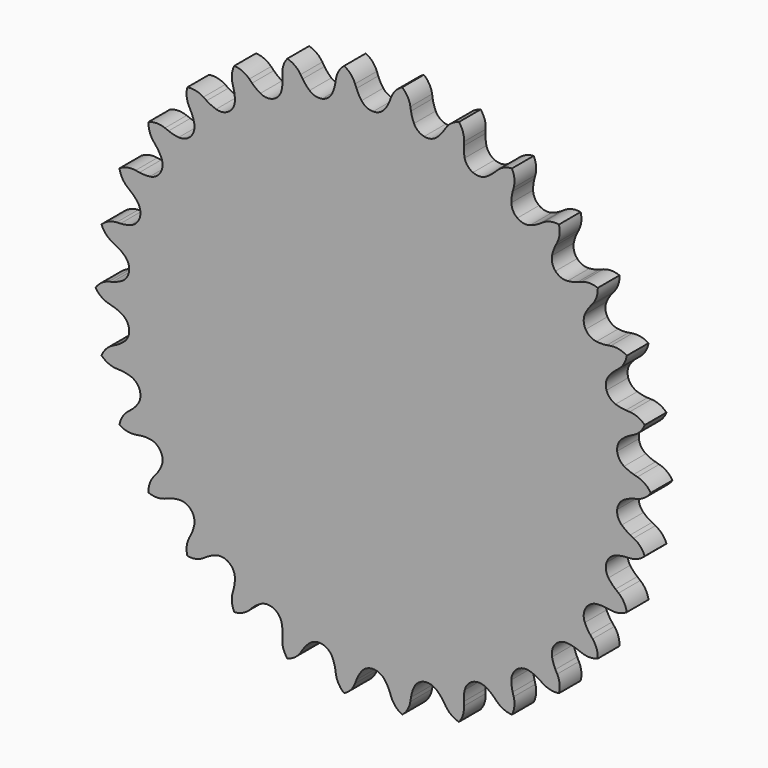
from build123d import *

# Parameters (mm, degrees)
F1_DEPTH = 3.175


with BuildPart() as f1:
    # F0 (on Front) → F1 (new body)
    with BuildSketch(Plane.XZ):
        with BuildLine():
            ThreePointArc((0, 28.67787), (-0.757191, 28.856196), (-1.35522, 29.35369))
            ThreePointArc((-1.35522, 29.35369), (-1.686696, 29.864781), (-1.943334, 30.417255))
            Line((-1.943334, 30.417255), (-2.105828, 30.842983))
            ThreePointArc((-2.105828, 30.842983), (-2.615746, 31.67675), (-3.3918, 32.270823))
            ThreePointArc((-3.3918, 32.270823), (-4.027381, 31.528381), (-4.352806, 30.606816))
            Line((-4.352806, 30.606816), (-4.423235, 30.156607))
            ThreePointArc((-4.423235, 30.156607), (-4.559399, 29.562848), (-4.77737, 28.994008))
            ThreePointArc((-4.77737, 28.994008), (-5.258896, 28.383048), (-5.962464, 28.05119))
            ThreePointArc((-5.962464, 28.05119), (-6.740185, 28.06819), (-7.428581, 28.430475))
            ThreePointArc((-7.428581, 28.430475), (-7.859075, 28.86148), (-8.224971, 29.348523))
            Line((-8.224971, 29.348523), (-8.472427, 29.731164))
            ThreePointArc((-8.472427, 29.731164), (-9.144552, 30.440693), (-10.027163, 30.860434))
            ThreePointArc((-10.027163, 30.860434), (-10.494492, 30.002071), (-10.621202, 29.032984))
            Line((-10.621202, 29.032984), (-10.596488, 28.57797))
            ThreePointArc((-10.596488, 28.57797), (-10.606227, 27.968876), (-10.701166, 27.367148))
            ThreePointArc((-10.701166, 27.367148), (-11.045144, 26.669424), (-11.664341, 26.198538))
            ThreePointArc((-11.664341, 26.198538), (-12.428601, 26.053469), (-13.177277, 26.264712))
            ThreePointArc((-13.177277, 26.264712), (-13.687975, 26.596794), (-14.147136, 26.99712))
            Line((-14.147136, 26.99712), (-14.468741, 27.31995))
            ThreePointArc((-14.468741, 27.31995), (-15.273698, 27.874231), (-16.22429, 28.101295))
            ThreePointArc((-16.22429, 28.101295), (-16.502943, 27.164526), (-16.4254, 26.190272))
            Line((-16.4254, 26.190272), (-16.306623, 25.750339))
            ThreePointArc((-16.306623, 25.750339), (-16.189512, 25.152531), (-16.15727, 24.544213))
            ThreePointArc((-16.15727, 24.544213), (-16.348666, 23.790219), (-16.856429, 23.200884))
            ThreePointArc((-16.856429, 23.200884), (-17.573827, 22.900087), (-18.350062, 22.951056))
            ThreePointArc((-18.350062, 22.951056), (-18.918644, 23.1697), (-19.451004, 23.465813))
            Line((-19.451004, 23.465813), (-19.832701, 23.714723))
            ThreePointArc((-19.832701, 23.714723), (-20.735309, 24.089532), (-21.712338, 24.113994))
            ThreePointArc((-21.712338, 24.113994), (-21.790137, 23.139761), (-21.511729, 22.202919))
            Line((-21.511729, 22.202919), (-21.304081, 21.797295))
            ThreePointArc((-21.304081, 21.797295), (-21.065237, 21.236899), (-20.907223, 20.648577))
            ThreePointArc((-20.907223, 20.648577), (-20.937673, 19.871267), (-21.311811, 19.189241))
            ThreePointArc((-21.311811, 19.189241), (-21.950993, 18.745861), (-22.720862, 18.634327))
            ThreePointArc((-22.720862, 18.634327), (-23.322478, 18.729979), (-23.90477, 18.908937))
            Line((-23.90477, 18.908937), (-24.329877, 19.073049))
            ThreePointArc((-24.329877, 19.073049), (-25.290688, 19.252005), (-26.251453, 19.072797))
            ThreePointArc((-26.251453, 19.072797), (-26.124997, 18.103678), (-25.657893, 17.245192))
            Line((-25.657893, 17.245192), (-25.370448, 16.891604))
            ThreePointArc((-25.370448, 16.891604), (-25.020311, 16.393112), (-24.743431, 15.8505))
            ThreePointArc((-24.743431, 15.8505), (-24.611603, 15.083845), (-24.835764, 14.338935))
            ThreePointArc((-24.835764, 14.338935), (-25.368795, 13.772351), (-26.098651, 13.50319))
            ThreePointArc((-26.098651, 13.50319), (-26.707007, 13.471669), (-27.313783, 13.525651))
            Line((-27.313783, 13.525651), (-27.763721, 13.597791))
            ThreePointArc((-27.763721, 13.597791), (-28.740743, 13.573072), (-29.643253, 13.198027))
            ThreePointArc((-29.643253, 13.198027), (-29.318069, 12.276376), (-28.682683, 11.533767))
            Line((-28.682683, 11.533767), (-28.328005, 11.247669))
            ThreePointArc((-28.328005, 11.247669), (-27.881877, 10.832868), (-27.498232, 10.35968))
            ThreePointArc((-27.498232, 10.35968), (-27.209888, 9.637187), (-27.274275, 8.861949))
            ThreePointArc((-27.274275, 8.861949), (-27.677858, 8.196923), (-28.335804, 7.781898))
            ThreePointArc((-28.335804, 7.781898), (-28.924312, 7.624581), (-29.529052, 7.551228))
            Line((-29.529052, 7.551228), (-29.984157, 7.528245))
            ThreePointArc((-29.984157, 7.528245), (-30.934689, 7.300932), (-31.739501, 6.746439))
            ThreePointArc((-31.739501, 6.746439), (-31.229801, 5.912539), (-30.453903, 5.318262))
            Line((-30.453903, 5.318262), (-30.047492, 5.112157))
            ThreePointArc((-30.047492, 5.112157), (-29.524871, 4.799176), (-29.051228, 4.416092))
            ThreePointArc((-29.051228, 4.416092), (-28.618971, 3.769337), (-28.52077, 2.997654))
            ThreePointArc((-28.52077, 2.997654), (-28.777267, 2.263251), (-29.334547, 1.7205))
            ThreePointArc((-29.334547, 1.7205), (-29.877486, 1.444263), (-30.45376, 1.24678))
            Line((-30.45376, 1.24678), (-30.894141, 1.129678))
            ThreePointArc((-30.894141, 1.129678), (-31.776641, 0.709705), (-32.44858, 0))
            ThreePointArc((-32.44858, 0), (-31.776641, -0.709705), (-30.894141, -1.129678))
            Line((-30.894141, -1.129678), (-30.45376, -1.24678))
            ThreePointArc((-30.45376, -1.24678), (-29.877486, -1.444263), (-29.334547, -1.7205))
            ThreePointArc((-29.334547, -1.7205), (-28.777267, -2.263251), (-28.52077, -2.997654))
            ThreePointArc((-28.52077, -2.997654), (-28.618971, -3.769337), (-29.051228, -4.416092))
            ThreePointArc((-29.051228, -4.416092), (-29.524871, -4.799176), (-30.047492, -5.112157))
            Line((-30.047492, -5.112157), (-30.453903, -5.318262))
            ThreePointArc((-30.453903, -5.318262), (-31.229801, -5.912539), (-31.739501, -6.746439))
            ThreePointArc((-31.739501, -6.746439), (-30.934689, -7.300932), (-29.984157, -7.528245))
            Line((-29.984157, -7.528245), (-29.529052, -7.551228))
            ThreePointArc((-29.529052, -7.551228), (-28.924312, -7.624581), (-28.335804, -7.781898))
            ThreePointArc((-28.335804, -7.781898), (-27.677858, -8.196923), (-27.274275, -8.861949))
            ThreePointArc((-27.274275, -8.861949), (-27.209888, -9.637187), (-27.498232, -10.35968))
            ThreePointArc((-27.498232, -10.35968), (-27.881877, -10.832868), (-28.328005, -11.247669))
            Line((-28.328005, -11.247669), (-28.682683, -11.533767))
            ThreePointArc((-28.682683, -11.533767), (-29.318069, -12.276376), (-29.643253, -13.198027))
            ThreePointArc((-29.643253, -13.198027), (-28.740743, -13.573072), (-27.763721, -13.597791))
            Line((-27.763721, -13.597791), (-27.313783, -13.525651))
            ThreePointArc((-27.313783, -13.525651), (-26.707007, -13.471669), (-26.098651, -13.50319))
            ThreePointArc((-26.098651, -13.50319), (-25.368795, -13.772351), (-24.835764, -14.338935))
            ThreePointArc((-24.835764, -14.338935), (-24.611603, -15.083845), (-24.743431, -15.8505))
            ThreePointArc((-24.743431, -15.8505), (-25.020311, -16.393112), (-25.370448, -16.891604))
            Line((-25.370448, -16.891604), (-25.657893, -17.245192))
            ThreePointArc((-25.657893, -17.245192), (-26.124997, -18.103678), (-26.251453, -19.072797))
            ThreePointArc((-26.251453, -19.072797), (-25.290688, -19.252005), (-24.329877, -19.073049))
            Line((-24.329877, -19.073049), (-23.90477, -18.908937))
            ThreePointArc((-23.90477, -18.908937), (-23.322478, -18.729979), (-22.720862, -18.634327))
            ThreePointArc((-22.720862, -18.634327), (-21.950993, -18.745861), (-21.311811, -19.189241))
            ThreePointArc((-21.311811, -19.189241), (-20.937673, -19.871267), (-20.907223, -20.648577))
            ThreePointArc((-20.907223, -20.648577), (-21.065237, -21.236899), (-21.304081, -21.797295))
            Line((-21.304081, -21.797295), (-21.511729, -22.202919))
            ThreePointArc((-21.511729, -22.202919), (-21.790137, -23.139761), (-21.712338, -24.113994))
            ThreePointArc((-21.712338, -24.113994), (-20.735309, -24.089532), (-19.832701, -23.714723))
            Line((-19.832701, -23.714723), (-19.451004, -23.465813))
            ThreePointArc((-19.451004, -23.465813), (-18.918644, -23.1697), (-18.350062, -22.951056))
            ThreePointArc((-18.350062, -22.951056), (-17.573827, -22.900087), (-16.856429, -23.200884))
            ThreePointArc((-16.856429, -23.200884), (-16.348666, -23.790219), (-16.15727, -24.544213))
            ThreePointArc((-16.15727, -24.544213), (-16.189512, -25.152531), (-16.306623, -25.750339))
            Line((-16.306623, -25.750339), (-16.4254, -26.190272))
            ThreePointArc((-16.4254, -26.190272), (-16.502943, -27.164526), (-16.22429, -28.101295))
            ThreePointArc((-16.22429, -28.101295), (-15.273698, -27.874231), (-14.468741, -27.31995))
            Line((-14.468741, -27.31995), (-14.147136, -26.99712))
            ThreePointArc((-14.147136, -26.99712), (-13.687975, -26.596794), (-13.177277, -26.264712))
            ThreePointArc((-13.177277, -26.264712), (-12.428601, -26.053469), (-11.664341, -26.198538))
            ThreePointArc((-11.664341, -26.198538), (-11.045144, -26.669424), (-10.701166, -27.367148))
            ThreePointArc((-10.701166, -27.367148), (-10.606227, -27.968876), (-10.596488, -28.57797))
            Line((-10.596488, -28.57797), (-10.621202, -29.032984))
            ThreePointArc((-10.621202, -29.032984), (-10.494492, -30.002071), (-10.027163, -30.860434))
            ThreePointArc((-10.027163, -30.860434), (-9.144552, -30.440693), (-8.472427, -29.731164))
            Line((-8.472427, -29.731164), (-8.224971, -29.348523))
            ThreePointArc((-8.224971, -29.348523), (-7.859075, -28.86148), (-7.428581, -28.430475))
            ThreePointArc((-7.428581, -28.430475), (-6.740185, -28.06819), (-5.962464, -28.05119))
            ThreePointArc((-5.962464, -28.05119), (-5.258896, -28.383048), (-4.77737, -28.994008))
            ThreePointArc((-4.77737, -28.994008), (-4.559399, -29.562848), (-4.423235, -30.156607))
            Line((-4.423235, -30.156607), (-4.352806, -30.606816))
            ThreePointArc((-4.352806, -30.606816), (-4.027381, -31.528381), (-3.3918, -32.270823))
            ThreePointArc((-3.3918, -32.270823), (-2.615746, -31.67675), (-2.105828, -30.842983))
            Line((-2.105828, -30.842983), (-1.943334, -30.417255))
            ThreePointArc((-1.943334, -30.417255), (-1.686696, -29.864781), (-1.35522, -29.35369))
            ThreePointArc((-1.35522, -29.35369), (-0.757191, -28.856196), (0, -28.67787))
            ThreePointArc((0, -28.67787), (0.757191, -28.856196), (1.35522, -29.35369))
            ThreePointArc((1.35522, -29.35369), (1.686696, -29.864781), (1.943334, -30.417255))
            Line((1.943334, -30.417255), (2.105828, -30.842983))
            ThreePointArc((2.105828, -30.842983), (2.615746, -31.67675), (3.3918, -32.270823))
            ThreePointArc((3.3918, -32.270823), (4.027381, -31.528381), (4.352806, -30.606816))
            Line((4.352806, -30.606816), (4.423235, -30.156607))
            ThreePointArc((4.423235, -30.156607), (4.559399, -29.562848), (4.77737, -28.994008))
            ThreePointArc((4.77737, -28.994008), (5.258896, -28.383048), (5.962464, -28.05119))
            ThreePointArc((5.962464, -28.05119), (6.740185, -28.06819), (7.428581, -28.430475))
            ThreePointArc((7.428581, -28.430475), (7.859075, -28.86148), (8.224971, -29.348523))
            Line((8.224971, -29.348523), (8.472427, -29.731164))
            ThreePointArc((8.472427, -29.731164), (9.144552, -30.440693), (10.027163, -30.860434))
            ThreePointArc((10.027163, -30.860434), (10.494492, -30.002071), (10.621202, -29.032984))
            Line((10.621202, -29.032984), (10.596488, -28.57797))
            ThreePointArc((10.596488, -28.57797), (10.606227, -27.968876), (10.701166, -27.367148))
            ThreePointArc((10.701166, -27.367148), (11.045144, -26.669424), (11.664341, -26.198538))
            ThreePointArc((11.664341, -26.198538), (12.428601, -26.053469), (13.177277, -26.264712))
            ThreePointArc((13.177277, -26.264712), (13.687975, -26.596794), (14.147136, -26.99712))
            Line((14.147136, -26.99712), (14.468741, -27.31995))
            ThreePointArc((14.468741, -27.31995), (15.273698, -27.874231), (16.22429, -28.101295))
            ThreePointArc((16.22429, -28.101295), (16.502943, -27.164526), (16.4254, -26.190272))
            Line((16.4254, -26.190272), (16.306623, -25.750339))
            ThreePointArc((16.306623, -25.750339), (16.189512, -25.152531), (16.15727, -24.544213))
            ThreePointArc((16.15727, -24.544213), (16.348666, -23.790219), (16.856429, -23.200884))
            ThreePointArc((16.856429, -23.200884), (17.573827, -22.900087), (18.350062, -22.951056))
            ThreePointArc((18.350062, -22.951056), (18.918644, -23.1697), (19.451004, -23.465813))
            Line((19.451004, -23.465813), (19.832701, -23.714723))
            ThreePointArc((19.832701, -23.714723), (20.735309, -24.089532), (21.712338, -24.113994))
            ThreePointArc((21.712338, -24.113994), (21.790137, -23.139761), (21.511729, -22.202919))
            Line((21.511729, -22.202919), (21.304081, -21.797295))
            ThreePointArc((21.304081, -21.797295), (21.065237, -21.236899), (20.907223, -20.648577))
            ThreePointArc((20.907223, -20.648577), (20.937673, -19.871267), (21.311811, -19.189241))
            ThreePointArc((21.311811, -19.189241), (21.950993, -18.745861), (22.720862, -18.634327))
            ThreePointArc((22.720862, -18.634327), (23.322478, -18.729979), (23.90477, -18.908937))
            Line((23.90477, -18.908937), (24.329877, -19.073049))
            ThreePointArc((24.329877, -19.073049), (25.290688, -19.252005), (26.251453, -19.072797))
            ThreePointArc((26.251453, -19.072797), (26.124997, -18.103678), (25.657893, -17.245192))
            Line((25.657893, -17.245192), (25.370448, -16.891604))
            ThreePointArc((25.370448, -16.891604), (25.020311, -16.393112), (24.743431, -15.8505))
            ThreePointArc((24.743431, -15.8505), (24.611603, -15.083845), (24.835764, -14.338935))
            ThreePointArc((24.835764, -14.338935), (25.368795, -13.772351), (26.098651, -13.50319))
            ThreePointArc((26.098651, -13.50319), (26.707007, -13.471669), (27.313783, -13.525651))
            Line((27.313783, -13.525651), (27.763721, -13.597791))
            ThreePointArc((27.763721, -13.597791), (28.740743, -13.573072), (29.643253, -13.198027))
            ThreePointArc((29.643253, -13.198027), (29.318069, -12.276376), (28.682683, -11.533767))
            Line((28.682683, -11.533767), (28.328005, -11.247669))
            ThreePointArc((28.328005, -11.247669), (27.881877, -10.832868), (27.498232, -10.35968))
            ThreePointArc((27.498232, -10.35968), (27.209888, -9.637187), (27.274275, -8.861949))
            ThreePointArc((27.274275, -8.861949), (27.677858, -8.196923), (28.335804, -7.781898))
            ThreePointArc((28.335804, -7.781898), (28.924312, -7.624581), (29.529052, -7.551228))
            Line((29.529052, -7.551228), (29.984157, -7.528245))
            ThreePointArc((29.984157, -7.528245), (30.934689, -7.300932), (31.739501, -6.746439))
            ThreePointArc((31.739501, -6.746439), (31.229801, -5.912539), (30.453903, -5.318262))
            Line((30.453903, -5.318262), (30.047492, -5.112157))
            ThreePointArc((30.047492, -5.112157), (29.524871, -4.799176), (29.051228, -4.416092))
            ThreePointArc((29.051228, -4.416092), (28.618971, -3.769337), (28.52077, -2.997654))
            ThreePointArc((28.52077, -2.997654), (28.777267, -2.263251), (29.334547, -1.7205))
            ThreePointArc((29.334547, -1.7205), (29.877486, -1.444263), (30.45376, -1.24678))
            Line((30.45376, -1.24678), (30.894141, -1.129678))
            ThreePointArc((30.894141, -1.129678), (31.776641, -0.709705), (32.44858, 0))
            ThreePointArc((32.44858, 0), (31.776641, 0.709705), (30.894141, 1.129678))
            Line((30.894141, 1.129678), (30.45376, 1.24678))
            ThreePointArc((30.45376, 1.24678), (29.877486, 1.444263), (29.334547, 1.7205))
            ThreePointArc((29.334547, 1.7205), (28.777267, 2.263251), (28.52077, 2.997654))
            ThreePointArc((28.52077, 2.997654), (28.618971, 3.769337), (29.051228, 4.416092))
            ThreePointArc((29.051228, 4.416092), (29.524871, 4.799176), (30.047492, 5.112157))
            Line((30.047492, 5.112157), (30.453903, 5.318262))
            ThreePointArc((30.453903, 5.318262), (31.229801, 5.912539), (31.739501, 6.746439))
            ThreePointArc((31.739501, 6.746439), (30.934689, 7.300932), (29.984157, 7.528245))
            Line((29.984157, 7.528245), (29.529052, 7.551228))
            ThreePointArc((29.529052, 7.551228), (28.924312, 7.624581), (28.335804, 7.781898))
            ThreePointArc((28.335804, 7.781898), (27.677858, 8.196923), (27.274275, 8.861949))
            ThreePointArc((27.274275, 8.861949), (27.209888, 9.637187), (27.498232, 10.35968))
            ThreePointArc((27.498232, 10.35968), (27.881877, 10.832868), (28.328005, 11.247669))
            Line((28.328005, 11.247669), (28.682683, 11.533767))
            ThreePointArc((28.682683, 11.533767), (29.318069, 12.276376), (29.643253, 13.198027))
            ThreePointArc((29.643253, 13.198027), (28.740743, 13.573072), (27.763721, 13.597791))
            Line((27.763721, 13.597791), (27.313783, 13.525651))
            ThreePointArc((27.313783, 13.525651), (26.707007, 13.471669), (26.098651, 13.50319))
            ThreePointArc((26.098651, 13.50319), (25.368795, 13.772351), (24.835764, 14.338935))
            ThreePointArc((24.835764, 14.338935), (24.611603, 15.083845), (24.743431, 15.8505))
            ThreePointArc((24.743431, 15.8505), (25.020311, 16.393112), (25.370448, 16.891604))
            Line((25.370448, 16.891604), (25.657893, 17.245192))
            ThreePointArc((25.657893, 17.245192), (26.124997, 18.103678), (26.251453, 19.072797))
            ThreePointArc((26.251453, 19.072797), (25.290688, 19.252005), (24.329877, 19.073049))
            Line((24.329877, 19.073049), (23.90477, 18.908937))
            ThreePointArc((23.90477, 18.908937), (23.322478, 18.729979), (22.720862, 18.634327))
            ThreePointArc((22.720862, 18.634327), (21.950993, 18.745861), (21.311811, 19.189241))
            ThreePointArc((21.311811, 19.189241), (20.937673, 19.871267), (20.907223, 20.648577))
            ThreePointArc((20.907223, 20.648577), (21.065237, 21.236899), (21.304081, 21.797295))
            Line((21.304081, 21.797295), (21.511729, 22.202919))
            ThreePointArc((21.511729, 22.202919), (21.790137, 23.139761), (21.712338, 24.113994))
            ThreePointArc((21.712338, 24.113994), (20.735309, 24.089532), (19.832701, 23.714723))
            Line((19.832701, 23.714723), (19.451004, 23.465813))
            ThreePointArc((19.451004, 23.465813), (18.918644, 23.1697), (18.350062, 22.951056))
            ThreePointArc((18.350062, 22.951056), (17.573827, 22.900087), (16.856429, 23.200884))
            ThreePointArc((16.856429, 23.200884), (16.348666, 23.790219), (16.15727, 24.544213))
            ThreePointArc((16.15727, 24.544213), (16.189512, 25.152531), (16.306623, 25.750339))
            Line((16.306623, 25.750339), (16.4254, 26.190272))
            ThreePointArc((16.4254, 26.190272), (16.502943, 27.164526), (16.22429, 28.101295))
            ThreePointArc((16.22429, 28.101295), (15.273698, 27.874231), (14.468741, 27.31995))
            Line((14.468741, 27.31995), (14.147136, 26.99712))
            ThreePointArc((14.147136, 26.99712), (13.687975, 26.596794), (13.177277, 26.264712))
            ThreePointArc((13.177277, 26.264712), (12.428601, 26.053469), (11.664341, 26.198538))
            ThreePointArc((11.664341, 26.198538), (11.045144, 26.669424), (10.701166, 27.367148))
            ThreePointArc((10.701166, 27.367148), (10.606227, 27.968876), (10.596488, 28.57797))
            Line((10.596488, 28.57797), (10.621202, 29.032984))
            ThreePointArc((10.621202, 29.032984), (10.494492, 30.002071), (10.027163, 30.860434))
            ThreePointArc((10.027163, 30.860434), (9.144552, 30.440693), (8.472427, 29.731164))
            Line((8.472427, 29.731164), (8.224971, 29.348523))
            ThreePointArc((8.224971, 29.348523), (7.859075, 28.86148), (7.428581, 28.430475))
            ThreePointArc((7.428581, 28.430475), (6.740185, 28.06819), (5.962464, 28.05119))
            ThreePointArc((5.962464, 28.05119), (5.258896, 28.383048), (4.77737, 28.994008))
            ThreePointArc((4.77737, 28.994008), (4.559399, 29.562848), (4.423235, 30.156607))
            Line((4.423235, 30.156607), (4.352806, 30.606816))
            ThreePointArc((4.352806, 30.606816), (4.027381, 31.528381), (3.3918, 32.270823))
            ThreePointArc((3.3918, 32.270823), (2.615746, 31.67675), (2.105828, 30.842983))
            Line((2.105828, 30.842983), (1.943334, 30.417255))
            ThreePointArc((1.943334, 30.417255), (1.686696, 29.864781), (1.35522, 29.35369))
            ThreePointArc((1.35522, 29.35369), (0.757191, 28.856196), (0, 28.67787))
        make_face()
        with BuildLine():
            ThreePointArc((0, 28.67787), (-0.757191, 28.856196), (-1.35522, 29.35369))
            ThreePointArc((-1.35522, 29.35369), (-1.686696, 29.864781), (-1.943334, 30.417255))
            Line((-1.943334, 30.417255), (-2.105828, 30.842983))
            ThreePointArc((-2.105828, 30.842983), (-2.615746, 31.67675), (-3.3918, 32.270823))
            ThreePointArc((-3.3918, 32.270823), (-4.027381, 31.528381), (-4.352806, 30.606816))
            Line((-4.352806, 30.606816), (-4.423235, 30.156607))
            ThreePointArc((-4.423235, 30.156607), (-4.559399, 29.562848), (-4.77737, 28.994008))
            ThreePointArc((-4.77737, 28.994008), (-5.258896, 28.383048), (-5.962464, 28.05119))
            ThreePointArc((-5.962464, 28.05119), (-6.740185, 28.06819), (-7.428581, 28.430475))
            ThreePointArc((-7.428581, 28.430475), (-7.859075, 28.86148), (-8.224971, 29.348523))
            Line((-8.224971, 29.348523), (-8.472427, 29.731164))
            ThreePointArc((-8.472427, 29.731164), (-9.144552, 30.440693), (-10.027163, 30.860434))
            ThreePointArc((-10.027163, 30.860434), (-10.494492, 30.002071), (-10.621202, 29.032984))
            Line((-10.621202, 29.032984), (-10.596488, 28.57797))
            ThreePointArc((-10.596488, 28.57797), (-10.606227, 27.968876), (-10.701166, 27.367148))
            ThreePointArc((-10.701166, 27.367148), (-11.045144, 26.669424), (-11.664341, 26.198538))
            ThreePointArc((-11.664341, 26.198538), (-12.428601, 26.053469), (-13.177277, 26.264712))
            ThreePointArc((-13.177277, 26.264712), (-13.687975, 26.596794), (-14.147136, 26.99712))
            Line((-14.147136, 26.99712), (-14.468741, 27.31995))
            ThreePointArc((-14.468741, 27.31995), (-15.273698, 27.874231), (-16.22429, 28.101295))
            ThreePointArc((-16.22429, 28.101295), (-16.502943, 27.164526), (-16.4254, 26.190272))
            Line((-16.4254, 26.190272), (-16.306623, 25.750339))
            ThreePointArc((-16.306623, 25.750339), (-16.189512, 25.152531), (-16.15727, 24.544213))
            ThreePointArc((-16.15727, 24.544213), (-16.348666, 23.790219), (-16.856429, 23.200884))
            ThreePointArc((-16.856429, 23.200884), (-17.573827, 22.900087), (-18.350062, 22.951056))
            ThreePointArc((-18.350062, 22.951056), (-18.918644, 23.1697), (-19.451004, 23.465813))
            Line((-19.451004, 23.465813), (-19.832701, 23.714723))
            ThreePointArc((-19.832701, 23.714723), (-20.735309, 24.089532), (-21.712338, 24.113994))
            ThreePointArc((-21.712338, 24.113994), (-21.790137, 23.139761), (-21.511729, 22.202919))
            Line((-21.511729, 22.202919), (-21.304081, 21.797295))
            ThreePointArc((-21.304081, 21.797295), (-21.065237, 21.236899), (-20.907223, 20.648577))
            ThreePointArc((-20.907223, 20.648577), (-20.937673, 19.871267), (-21.311811, 19.189241))
            ThreePointArc((-21.311811, 19.189241), (-21.950993, 18.745861), (-22.720862, 18.634327))
            ThreePointArc((-22.720862, 18.634327), (-23.322478, 18.729979), (-23.90477, 18.908937))
            Line((-23.90477, 18.908937), (-24.329877, 19.073049))
            ThreePointArc((-24.329877, 19.073049), (-25.290688, 19.252005), (-26.251453, 19.072797))
            ThreePointArc((-26.251453, 19.072797), (-26.124997, 18.103678), (-25.657893, 17.245192))
            Line((-25.657893, 17.245192), (-25.370448, 16.891604))
            ThreePointArc((-25.370448, 16.891604), (-25.020311, 16.393112), (-24.743431, 15.8505))
            ThreePointArc((-24.743431, 15.8505), (-24.611603, 15.083845), (-24.835764, 14.338935))
            ThreePointArc((-24.835764, 14.338935), (-25.368795, 13.772351), (-26.098651, 13.50319))
            ThreePointArc((-26.098651, 13.50319), (-26.707007, 13.471669), (-27.313783, 13.525651))
            Line((-27.313783, 13.525651), (-27.763721, 13.597791))
            ThreePointArc((-27.763721, 13.597791), (-28.740743, 13.573072), (-29.643253, 13.198027))
            ThreePointArc((-29.643253, 13.198027), (-29.318069, 12.276376), (-28.682683, 11.533767))
            Line((-28.682683, 11.533767), (-28.328005, 11.247669))
            ThreePointArc((-28.328005, 11.247669), (-27.881877, 10.832868), (-27.498232, 10.35968))
            ThreePointArc((-27.498232, 10.35968), (-27.209888, 9.637187), (-27.274275, 8.861949))
            ThreePointArc((-27.274275, 8.861949), (-27.677858, 8.196923), (-28.335804, 7.781898))
            ThreePointArc((-28.335804, 7.781898), (-28.924312, 7.624581), (-29.529052, 7.551228))
            Line((-29.529052, 7.551228), (-29.984157, 7.528245))
            ThreePointArc((-29.984157, 7.528245), (-30.934689, 7.300932), (-31.739501, 6.746439))
            ThreePointArc((-31.739501, 6.746439), (-31.229801, 5.912539), (-30.453903, 5.318262))
            Line((-30.453903, 5.318262), (-30.047492, 5.112157))
            ThreePointArc((-30.047492, 5.112157), (-29.524871, 4.799176), (-29.051228, 4.416092))
            ThreePointArc((-29.051228, 4.416092), (-28.618971, 3.769337), (-28.52077, 2.997654))
            ThreePointArc((-28.52077, 2.997654), (-28.777267, 2.263251), (-29.334547, 1.7205))
            ThreePointArc((-29.334547, 1.7205), (-29.877486, 1.444263), (-30.45376, 1.24678))
            Line((-30.45376, 1.24678), (-30.894141, 1.129678))
            ThreePointArc((-30.894141, 1.129678), (-31.776641, 0.709705), (-32.44858, 0))
            ThreePointArc((-32.44858, 0), (-31.776641, -0.709705), (-30.894141, -1.129678))
            Line((-30.894141, -1.129678), (-30.45376, -1.24678))
            ThreePointArc((-30.45376, -1.24678), (-29.877486, -1.444263), (-29.334547, -1.7205))
            ThreePointArc((-29.334547, -1.7205), (-28.777267, -2.263251), (-28.52077, -2.997654))
            ThreePointArc((-28.52077, -2.997654), (-28.618971, -3.769337), (-29.051228, -4.416092))
            ThreePointArc((-29.051228, -4.416092), (-29.524871, -4.799176), (-30.047492, -5.112157))
            Line((-30.047492, -5.112157), (-30.453903, -5.318262))
            ThreePointArc((-30.453903, -5.318262), (-31.229801, -5.912539), (-31.739501, -6.746439))
            ThreePointArc((-31.739501, -6.746439), (-30.934689, -7.300932), (-29.984157, -7.528245))
            Line((-29.984157, -7.528245), (-29.529052, -7.551228))
            ThreePointArc((-29.529052, -7.551228), (-28.924312, -7.624581), (-28.335804, -7.781898))
            ThreePointArc((-28.335804, -7.781898), (-27.677858, -8.196923), (-27.274275, -8.861949))
            ThreePointArc((-27.274275, -8.861949), (-27.209888, -9.637187), (-27.498232, -10.35968))
            ThreePointArc((-27.498232, -10.35968), (-27.881877, -10.832868), (-28.328005, -11.247669))
            Line((-28.328005, -11.247669), (-28.682683, -11.533767))
            ThreePointArc((-28.682683, -11.533767), (-29.318069, -12.276376), (-29.643253, -13.198027))
            ThreePointArc((-29.643253, -13.198027), (-28.740743, -13.573072), (-27.763721, -13.597791))
            Line((-27.763721, -13.597791), (-27.313783, -13.525651))
            ThreePointArc((-27.313783, -13.525651), (-26.707007, -13.471669), (-26.098651, -13.50319))
            ThreePointArc((-26.098651, -13.50319), (-25.368795, -13.772351), (-24.835764, -14.338935))
            ThreePointArc((-24.835764, -14.338935), (-24.611603, -15.083845), (-24.743431, -15.8505))
            ThreePointArc((-24.743431, -15.8505), (-25.020311, -16.393112), (-25.370448, -16.891604))
            Line((-25.370448, -16.891604), (-25.657893, -17.245192))
            ThreePointArc((-25.657893, -17.245192), (-26.124997, -18.103678), (-26.251453, -19.072797))
            ThreePointArc((-26.251453, -19.072797), (-25.290688, -19.252005), (-24.329877, -19.073049))
            Line((-24.329877, -19.073049), (-23.90477, -18.908937))
            ThreePointArc((-23.90477, -18.908937), (-23.322478, -18.729979), (-22.720862, -18.634327))
            ThreePointArc((-22.720862, -18.634327), (-21.950993, -18.745861), (-21.311811, -19.189241))
            ThreePointArc((-21.311811, -19.189241), (-20.937673, -19.871267), (-20.907223, -20.648577))
            ThreePointArc((-20.907223, -20.648577), (-21.065237, -21.236899), (-21.304081, -21.797295))
            Line((-21.304081, -21.797295), (-21.511729, -22.202919))
            ThreePointArc((-21.511729, -22.202919), (-21.790137, -23.139761), (-21.712338, -24.113994))
            ThreePointArc((-21.712338, -24.113994), (-20.735309, -24.089532), (-19.832701, -23.714723))
            Line((-19.832701, -23.714723), (-19.451004, -23.465813))
            ThreePointArc((-19.451004, -23.465813), (-18.918644, -23.1697), (-18.350062, -22.951056))
            ThreePointArc((-18.350062, -22.951056), (-17.573827, -22.900087), (-16.856429, -23.200884))
            ThreePointArc((-16.856429, -23.200884), (-16.348666, -23.790219), (-16.15727, -24.544213))
            ThreePointArc((-16.15727, -24.544213), (-16.189512, -25.152531), (-16.306623, -25.750339))
            Line((-16.306623, -25.750339), (-16.4254, -26.190272))
            ThreePointArc((-16.4254, -26.190272), (-16.502943, -27.164526), (-16.22429, -28.101295))
            ThreePointArc((-16.22429, -28.101295), (-15.273698, -27.874231), (-14.468741, -27.31995))
            Line((-14.468741, -27.31995), (-14.147136, -26.99712))
            ThreePointArc((-14.147136, -26.99712), (-13.687975, -26.596794), (-13.177277, -26.264712))
            ThreePointArc((-13.177277, -26.264712), (-12.428601, -26.053469), (-11.664341, -26.198538))
            ThreePointArc((-11.664341, -26.198538), (-11.045144, -26.669424), (-10.701166, -27.367148))
            ThreePointArc((-10.701166, -27.367148), (-10.606227, -27.968876), (-10.596488, -28.57797))
            Line((-10.596488, -28.57797), (-10.621202, -29.032984))
            ThreePointArc((-10.621202, -29.032984), (-10.494492, -30.002071), (-10.027163, -30.860434))
            ThreePointArc((-10.027163, -30.860434), (-9.144552, -30.440693), (-8.472427, -29.731164))
            Line((-8.472427, -29.731164), (-8.224971, -29.348523))
            ThreePointArc((-8.224971, -29.348523), (-7.859075, -28.86148), (-7.428581, -28.430475))
            ThreePointArc((-7.428581, -28.430475), (-6.740185, -28.06819), (-5.962464, -28.05119))
            ThreePointArc((-5.962464, -28.05119), (-5.258896, -28.383048), (-4.77737, -28.994008))
            ThreePointArc((-4.77737, -28.994008), (-4.559399, -29.562848), (-4.423235, -30.156607))
            Line((-4.423235, -30.156607), (-4.352806, -30.606816))
            ThreePointArc((-4.352806, -30.606816), (-4.027381, -31.528381), (-3.3918, -32.270823))
            ThreePointArc((-3.3918, -32.270823), (-2.615746, -31.67675), (-2.105828, -30.842983))
            Line((-2.105828, -30.842983), (-1.943334, -30.417255))
            ThreePointArc((-1.943334, -30.417255), (-1.686696, -29.864781), (-1.35522, -29.35369))
            ThreePointArc((-1.35522, -29.35369), (-0.757191, -28.856196), (0, -28.67787))
            ThreePointArc((0, -28.67787), (0.757191, -28.856196), (1.35522, -29.35369))
            ThreePointArc((1.35522, -29.35369), (1.686696, -29.864781), (1.943334, -30.417255))
            Line((1.943334, -30.417255), (2.105828, -30.842983))
            ThreePointArc((2.105828, -30.842983), (2.615746, -31.67675), (3.3918, -32.270823))
            ThreePointArc((3.3918, -32.270823), (4.027381, -31.528381), (4.352806, -30.606816))
            Line((4.352806, -30.606816), (4.423235, -30.156607))
            ThreePointArc((4.423235, -30.156607), (4.559399, -29.562848), (4.77737, -28.994008))
            ThreePointArc((4.77737, -28.994008), (5.258896, -28.383048), (5.962464, -28.05119))
            ThreePointArc((5.962464, -28.05119), (6.740185, -28.06819), (7.428581, -28.430475))
            ThreePointArc((7.428581, -28.430475), (7.859075, -28.86148), (8.224971, -29.348523))
            Line((8.224971, -29.348523), (8.472427, -29.731164))
            ThreePointArc((8.472427, -29.731164), (9.144552, -30.440693), (10.027163, -30.860434))
            ThreePointArc((10.027163, -30.860434), (10.494492, -30.002071), (10.621202, -29.032984))
            Line((10.621202, -29.032984), (10.596488, -28.57797))
            ThreePointArc((10.596488, -28.57797), (10.606227, -27.968876), (10.701166, -27.367148))
            ThreePointArc((10.701166, -27.367148), (11.045144, -26.669424), (11.664341, -26.198538))
            ThreePointArc((11.664341, -26.198538), (12.428601, -26.053469), (13.177277, -26.264712))
            ThreePointArc((13.177277, -26.264712), (13.687975, -26.596794), (14.147136, -26.99712))
            Line((14.147136, -26.99712), (14.468741, -27.31995))
            ThreePointArc((14.468741, -27.31995), (15.273698, -27.874231), (16.22429, -28.101295))
            ThreePointArc((16.22429, -28.101295), (16.502943, -27.164526), (16.4254, -26.190272))
            Line((16.4254, -26.190272), (16.306623, -25.750339))
            ThreePointArc((16.306623, -25.750339), (16.189512, -25.152531), (16.15727, -24.544213))
            ThreePointArc((16.15727, -24.544213), (16.348666, -23.790219), (16.856429, -23.200884))
            ThreePointArc((16.856429, -23.200884), (17.573827, -22.900087), (18.350062, -22.951056))
            ThreePointArc((18.350062, -22.951056), (18.918644, -23.1697), (19.451004, -23.465813))
            Line((19.451004, -23.465813), (19.832701, -23.714723))
            ThreePointArc((19.832701, -23.714723), (20.735309, -24.089532), (21.712338, -24.113994))
            ThreePointArc((21.712338, -24.113994), (21.790137, -23.139761), (21.511729, -22.202919))
            Line((21.511729, -22.202919), (21.304081, -21.797295))
            ThreePointArc((21.304081, -21.797295), (21.065237, -21.236899), (20.907223, -20.648577))
            ThreePointArc((20.907223, -20.648577), (20.937673, -19.871267), (21.311811, -19.189241))
            ThreePointArc((21.311811, -19.189241), (21.950993, -18.745861), (22.720862, -18.634327))
            ThreePointArc((22.720862, -18.634327), (23.322478, -18.729979), (23.90477, -18.908937))
            Line((23.90477, -18.908937), (24.329877, -19.073049))
            ThreePointArc((24.329877, -19.073049), (25.290688, -19.252005), (26.251453, -19.072797))
            ThreePointArc((26.251453, -19.072797), (26.124997, -18.103678), (25.657893, -17.245192))
            Line((25.657893, -17.245192), (25.370448, -16.891604))
            ThreePointArc((25.370448, -16.891604), (25.020311, -16.393112), (24.743431, -15.8505))
            ThreePointArc((24.743431, -15.8505), (24.611603, -15.083845), (24.835764, -14.338935))
            ThreePointArc((24.835764, -14.338935), (25.368795, -13.772351), (26.098651, -13.50319))
            ThreePointArc((26.098651, -13.50319), (26.707007, -13.471669), (27.313783, -13.525651))
            Line((27.313783, -13.525651), (27.763721, -13.597791))
            ThreePointArc((27.763721, -13.597791), (28.740743, -13.573072), (29.643253, -13.198027))
            ThreePointArc((29.643253, -13.198027), (29.318069, -12.276376), (28.682683, -11.533767))
            Line((28.682683, -11.533767), (28.328005, -11.247669))
            ThreePointArc((28.328005, -11.247669), (27.881877, -10.832868), (27.498232, -10.35968))
            ThreePointArc((27.498232, -10.35968), (27.209888, -9.637187), (27.274275, -8.861949))
            ThreePointArc((27.274275, -8.861949), (27.677858, -8.196923), (28.335804, -7.781898))
            ThreePointArc((28.335804, -7.781898), (28.924312, -7.624581), (29.529052, -7.551228))
            Line((29.529052, -7.551228), (29.984157, -7.528245))
            ThreePointArc((29.984157, -7.528245), (30.934689, -7.300932), (31.739501, -6.746439))
            ThreePointArc((31.739501, -6.746439), (31.229801, -5.912539), (30.453903, -5.318262))
            Line((30.453903, -5.318262), (30.047492, -5.112157))
            ThreePointArc((30.047492, -5.112157), (29.524871, -4.799176), (29.051228, -4.416092))
            ThreePointArc((29.051228, -4.416092), (28.618971, -3.769337), (28.52077, -2.997654))
            ThreePointArc((28.52077, -2.997654), (28.777267, -2.263251), (29.334547, -1.7205))
            ThreePointArc((29.334547, -1.7205), (29.877486, -1.444263), (30.45376, -1.24678))
            Line((30.45376, -1.24678), (30.894141, -1.129678))
            ThreePointArc((30.894141, -1.129678), (31.776641, -0.709705), (32.44858, 0))
            ThreePointArc((32.44858, 0), (31.776641, 0.709705), (30.894141, 1.129678))
            Line((30.894141, 1.129678), (30.45376, 1.24678))
            ThreePointArc((30.45376, 1.24678), (29.877486, 1.444263), (29.334547, 1.7205))
            ThreePointArc((29.334547, 1.7205), (28.777267, 2.263251), (28.52077, 2.997654))
            ThreePointArc((28.52077, 2.997654), (28.618971, 3.769337), (29.051228, 4.416092))
            ThreePointArc((29.051228, 4.416092), (29.524871, 4.799176), (30.047492, 5.112157))
            Line((30.047492, 5.112157), (30.453903, 5.318262))
            ThreePointArc((30.453903, 5.318262), (31.229801, 5.912539), (31.739501, 6.746439))
            ThreePointArc((31.739501, 6.746439), (30.934689, 7.300932), (29.984157, 7.528245))
            Line((29.984157, 7.528245), (29.529052, 7.551228))
            ThreePointArc((29.529052, 7.551228), (28.924312, 7.624581), (28.335804, 7.781898))
            ThreePointArc((28.335804, 7.781898), (27.677858, 8.196923), (27.274275, 8.861949))
            ThreePointArc((27.274275, 8.861949), (27.209888, 9.637187), (27.498232, 10.35968))
            ThreePointArc((27.498232, 10.35968), (27.881877, 10.832868), (28.328005, 11.247669))
            Line((28.328005, 11.247669), (28.682683, 11.533767))
            ThreePointArc((28.682683, 11.533767), (29.318069, 12.276376), (29.643253, 13.198027))
            ThreePointArc((29.643253, 13.198027), (28.740743, 13.573072), (27.763721, 13.597791))
            Line((27.763721, 13.597791), (27.313783, 13.525651))
            ThreePointArc((27.313783, 13.525651), (26.707007, 13.471669), (26.098651, 13.50319))
            ThreePointArc((26.098651, 13.50319), (25.368795, 13.772351), (24.835764, 14.338935))
            ThreePointArc((24.835764, 14.338935), (24.611603, 15.083845), (24.743431, 15.8505))
            ThreePointArc((24.743431, 15.8505), (25.020311, 16.393112), (25.370448, 16.891604))
            Line((25.370448, 16.891604), (25.657893, 17.245192))
            ThreePointArc((25.657893, 17.245192), (26.124997, 18.103678), (26.251453, 19.072797))
            ThreePointArc((26.251453, 19.072797), (25.290688, 19.252005), (24.329877, 19.073049))
            Line((24.329877, 19.073049), (23.90477, 18.908937))
            ThreePointArc((23.90477, 18.908937), (23.322478, 18.729979), (22.720862, 18.634327))
            ThreePointArc((22.720862, 18.634327), (21.950993, 18.745861), (21.311811, 19.189241))
            ThreePointArc((21.311811, 19.189241), (20.937673, 19.871267), (20.907223, 20.648577))
            ThreePointArc((20.907223, 20.648577), (21.065237, 21.236899), (21.304081, 21.797295))
            Line((21.304081, 21.797295), (21.511729, 22.202919))
            ThreePointArc((21.511729, 22.202919), (21.790137, 23.139761), (21.712338, 24.113994))
            ThreePointArc((21.712338, 24.113994), (20.735309, 24.089532), (19.832701, 23.714723))
            Line((19.832701, 23.714723), (19.451004, 23.465813))
            ThreePointArc((19.451004, 23.465813), (18.918644, 23.1697), (18.350062, 22.951056))
            ThreePointArc((18.350062, 22.951056), (17.573827, 22.900087), (16.856429, 23.200884))
            ThreePointArc((16.856429, 23.200884), (16.348666, 23.790219), (16.15727, 24.544213))
            ThreePointArc((16.15727, 24.544213), (16.189512, 25.152531), (16.306623, 25.750339))
            Line((16.306623, 25.750339), (16.4254, 26.190272))
            ThreePointArc((16.4254, 26.190272), (16.502943, 27.164526), (16.22429, 28.101295))
            ThreePointArc((16.22429, 28.101295), (15.273698, 27.874231), (14.468741, 27.31995))
            Line((14.468741, 27.31995), (14.147136, 26.99712))
            ThreePointArc((14.147136, 26.99712), (13.687975, 26.596794), (13.177277, 26.264712))
            ThreePointArc((13.177277, 26.264712), (12.428601, 26.053469), (11.664341, 26.198538))
            ThreePointArc((11.664341, 26.198538), (11.045144, 26.669424), (10.701166, 27.367148))
            ThreePointArc((10.701166, 27.367148), (10.606227, 27.968876), (10.596488, 28.57797))
            Line((10.596488, 28.57797), (10.621202, 29.032984))
            ThreePointArc((10.621202, 29.032984), (10.494492, 30.002071), (10.027163, 30.860434))
            ThreePointArc((10.027163, 30.860434), (9.144552, 30.440693), (8.472427, 29.731164))
            Line((8.472427, 29.731164), (8.224971, 29.348523))
            ThreePointArc((8.224971, 29.348523), (7.859075, 28.86148), (7.428581, 28.430475))
            ThreePointArc((7.428581, 28.430475), (6.740185, 28.06819), (5.962464, 28.05119))
            ThreePointArc((5.962464, 28.05119), (5.258896, 28.383048), (4.77737, 28.994008))
            ThreePointArc((4.77737, 28.994008), (4.559399, 29.562848), (4.423235, 30.156607))
            Line((4.423235, 30.156607), (4.352806, 30.606816))
            ThreePointArc((4.352806, 30.606816), (4.027381, 31.528381), (3.3918, 32.270823))
            ThreePointArc((3.3918, 32.270823), (2.615746, 31.67675), (2.105828, 30.842983))
            Line((2.105828, 30.842983), (1.943334, 30.417255))
            ThreePointArc((1.943334, 30.417255), (1.686696, 29.864781), (1.35522, 29.35369))
            ThreePointArc((1.35522, 29.35369), (0.757191, 28.856196), (0, 28.67787))
        make_face()
    extrude(amount=F1_DEPTH)


solid = f1.part
